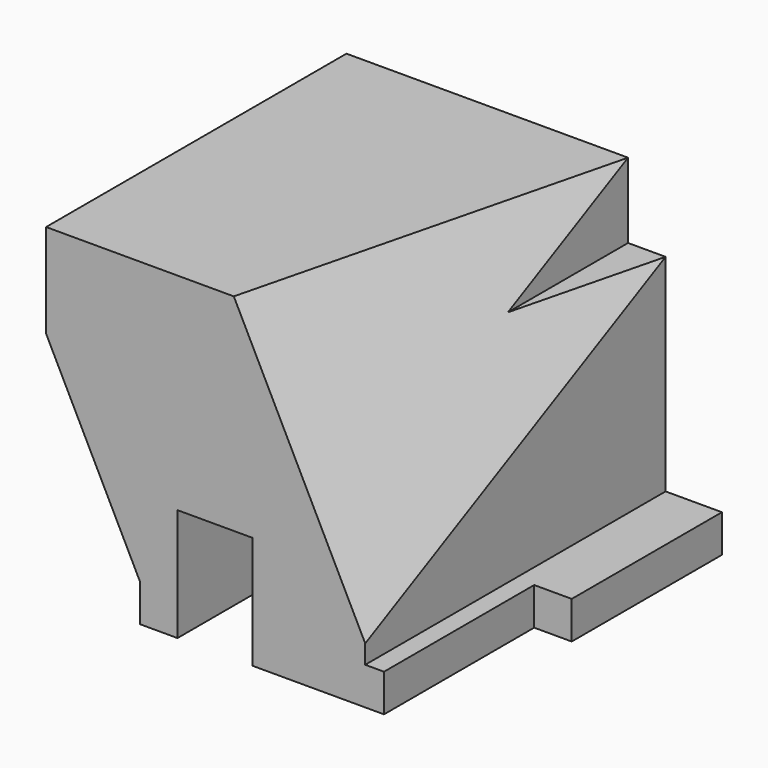
from build123d import *

# Parameters (mm, degrees)
F0_W          = 100
F0_H          = 85
F1_DEPTH      = 75
F1_DEPTH_BACK = 25
F3_DEPTH      = 100
F4_W          = 20
F4_H          = 30
F5_DEPTH      = 40
F7_DEPTH      = 100
F8_W          = 10
F8_H          = 50
F9_DEPTH      = 25
F16_DEPTH     = 25


with BuildPart() as f1:
    # F0 (on Right) → F1 (new body, two sides)
    with BuildSketch(Plane.YZ) as f1_sk:
        with Locations((50, 42.5)):
            Rectangle(F0_W, F0_H)
    extrude(amount=F1_DEPTH)
    extrude(f1_sk.sketch, amount=-F1_DEPTH_BACK)

    # F2 (on Front) → F3 (cut, through all)
    with BuildSketch(Plane.XZ):
        Polygon((0, 10), (-25, 60), (-25, 0), (0, 0), align=None)
    extrude(amount=-F3_DEPTH, mode=Mode.SUBTRACT)

    # F4 (on Front) → F5 (cut)
    with BuildSketch(Plane.XZ):
        with Locations((20, 15)):
            Rectangle(F4_W, F4_H)
    extrude(amount=-F5_DEPTH, mode=Mode.SUBTRACT)

    # F6 (on Front) → F7 (cut, through all)
    with BuildSketch(Plane.XZ):
        Polygon((60, 65), (60, 10), (75, 10), (75, 85), (50, 85), (50, 65), align=None)
    extrude(amount=-F7_DEPTH, mode=Mode.SUBTRACT)

    # F8 (on Top) → F9 (cut)
    with BuildSketch(Plane.XY):
        with Locations((70, 25)):
            Rectangle(F8_W, F8_H)
    extrude(amount=F9_DEPTH, mode=Mode.SUBTRACT)

    # F15 (on 3pt) → F16 (cut)
    with BuildSketch(Plane(origin=(51.4285714286, -12.8571428571, 25.7142857143), x_dir=(0.1951800146, 0.9759000729, 0.0975900073), z_dir=(0.8728715609, -0.2182178902, 0.4364357805))):
        Polygon((95.1502571125, 55.9016994375), (84.9033063465, 57.0197334262), (35.3343970406, 62.4281448313), (13.1746509848, 64.8459713475), (13.1746509848, -13.416407865), (115.6441586444, 31.304951685), (74.6563555806, 35.77708764), (115.6441586444, 53.66563146), align=None)
    extrude(amount=F16_DEPTH, mode=Mode.SUBTRACT)


solid = f1.part
